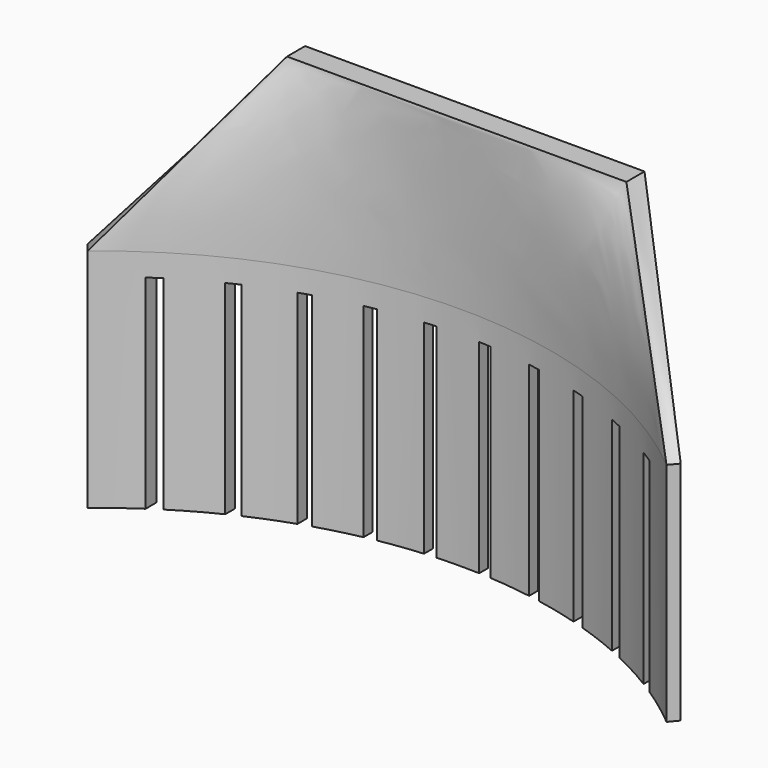
from build123d import *

# Parameters (mm, degrees)
F1_DEPTH = 20
F2_W     = 1.029727
F2_H     = 13.097165
F3_DEPTH = 18
F5_W     = 30
F5_H     = 2


with BuildPart() as f1:
    # F0 (on Top) → F1 (new body)
    with BuildSketch(Plane.XY):
        with BuildLine():
            ThreePointArc((-25.586572, 0), (0, 9.300989), (25.586572, 0))
            Line((25.586572, 0), (26.228737, 0.766566))
            ThreePointArc((26.228737, 0.766566), (0, 10.300989), (-26.228737, 0.766566))
            Line((-26.228737, 0.766566), (-25.586572, 0))
        make_face()
    extrude(amount=F1_DEPTH)

    # F2 (on Top) → F3 (cut)
    with BuildSketch(Plane.XY):
        with Locations((-21.875679, 6.548582)):
            Rectangle(F2_W, F2_H)
        with Locations((-17.075679, 6.548582)):
            Rectangle(F2_W, F2_H)
        with Locations((-12.275679, 6.548582)):
            Rectangle(F2_W, F2_H)
        with Locations((-7.47568, 6.548582)):
            Rectangle(F2_W, F2_H)
        with Locations((-2.67568, 6.548582)):
            Rectangle(F2_W, F2_H)
        with Locations((2.12432, 6.548582)):
            Rectangle(F2_W, F2_H)
        with Locations((6.924321, 6.548582)):
            Rectangle(F2_W, F2_H)
        with Locations((11.72432, 6.548582)):
            Rectangle(F2_W, F2_H)
        with Locations((16.52432, 6.548582)):
            Rectangle(F2_W, F2_H)
        with Locations((21.32432, 6.548582)):
            Rectangle(F2_W, F2_H)
    extrude(amount=F3_DEPTH, mode=Mode.SUBTRACT)

    # F1_face (on face) → F6 section 0
    with BuildSketch(Plane(origin=(0, 6.611875, 20), x_dir=(1, 0, 0), z_dir=(0, 0, 1))):
        with BuildLine():
            Line((25.586572, -6.611875), (26.228737, -5.845309))
            ThreePointArc((26.228737, -5.845309), (0, 3.689114), (-26.228737, -5.845309))
            Line((-26.228737, -5.845309), (-25.586572, -6.611875))
            ThreePointArc((-25.586572, -6.611875), (0, 2.689114), (25.586572, -6.611875))
        make_face()
    # F5 (on offset) → F6 section 1
    with BuildSketch(Plane.XY.offset(35)):
        with Locations((0, 9.8)):
            Rectangle(F5_W, F5_H)
    loft()


solid = f1.part
